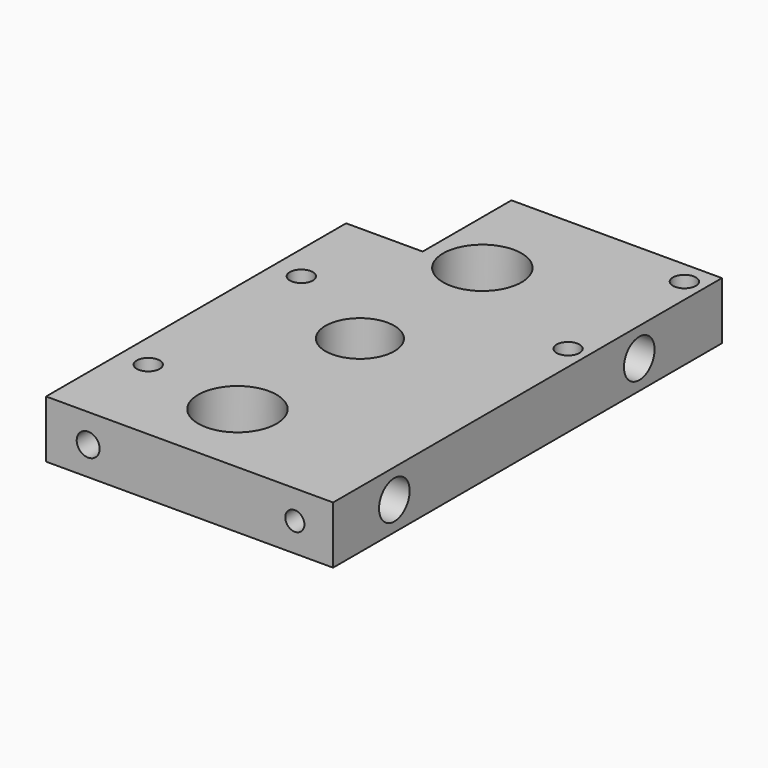
from build123d import *

# Parameters (mm, degrees)
F1_DEPTH  = 15
F2_R      = 3
F2_R_2    = 9
F3_DEPTH  = 15.001
F4_R      = 5.5
F5_DEPTH  = 6
F6_R      = 10.25
F7_DEPTH  = 12
F9_D      = 5
F9_DEPTH  = 35
F10_R     = 5
F10_R_2   = 2.5
F11_DEPTH = 18
F12_R     = 3
F12_R_2   = 2.5
F13_DEPTH = 17.9


with BuildPart() as f1:
    # F0 (on Top) → F1 (new body)
    with BuildSketch(Plane.XY):
        Polygon((0, 127), (0, 0), (75, 0), (75, 98), (55, 98), (55, 127), align=None)
    extrude(amount=F1_DEPTH)

    # F2 (on face) → F3 (cut, through all)
    with BuildSketch(Plane(origin=(0, 0, 0), x_dir=(1, 0, 0), z_dir=(0, 0, -1))):
        with Locations((5, -121)):
            Circle(F2_R)
        with Locations((5, -83)):
            Circle(F2_R)
        with Locations((41, -60)):
            Circle(F2_R_2)
        with Locations((67.5, -24)):
            Circle(F2_R)
        with Locations((67.5, -74)):
            Circle(F2_R)
    extrude(amount=-F3_DEPTH, mode=Mode.SUBTRACT)

    # F4 (on face) → F5 (cut)
    with BuildSketch(Plane(origin=(0, 0, 0), x_dir=(1, 0, 0), z_dir=(0, 0, -1))):
        with Locations((67.5, -74)):
            Circle(F4_R)
        with Locations((67.5, -24)):
            Circle(F4_R)
    extrude(amount=-F5_DEPTH, mode=Mode.SUBTRACT)

    # F6 (on face) → F7 (cut)
    with BuildSketch(Plane.XY.offset(15)):
        with Locations((41, 100)):
            Circle(F6_R)
        with Locations((41, 20)):
            Circle(F6_R)
    extrude(amount=-F7_DEPTH, mode=Mode.SUBTRACT)

    # F9
    with Locations(Plane(origin=(0, 0, 0), x_dir=(0, -1, 0), z_dir=(-1, 0, 0))):
        with Locations((-100, 7.5), (-20, 7.5)):
            Hole(F9_D / 2, depth=F9_DEPTH)

    # F10 (on face) → F11 (cut)
    with BuildSketch(Plane(origin=(0, 0, 0), x_dir=(0, -1, 0), z_dir=(-1, 0, 0))):
        with Locations((-100, 7.5)):
            Circle(F10_R)
        with Locations((-100, 7.5)):
            Circle(F10_R_2, mode=Mode.SUBTRACT)
        with Locations((-20, 7.5)):
            Circle(F10_R)
        with Locations((-20, 7.5)):
            Circle(F10_R_2, mode=Mode.SUBTRACT)
    extrude(amount=-F11_DEPTH, mode=Mode.SUBTRACT)

    # F12 (on face) → F13 (cut)
    with BuildSketch(Plane.XZ):
        with Locations((64, 7.5)):
            Circle(F12_R)
        with Locations((10, 7.5)):
            Circle(F12_R_2)
    extrude(amount=-F13_DEPTH, mode=Mode.SUBTRACT)


with BuildPart() as f14_1:
    # F14: instance of F1
    add(f1.part.mirror(Plane(origin=(0, 63.814533, 7.5), x_dir=(0, -1, 0), z_dir=(-1, 0, 0))))


solid = f14_1.part
